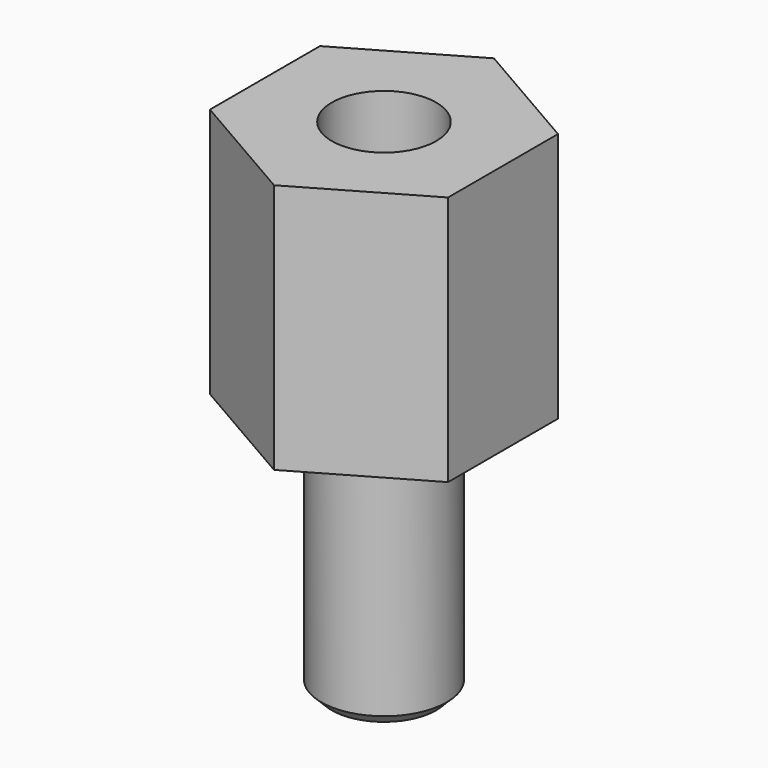
from build123d import *

# Parameters (mm, degrees)
SKETCH_R     = 1.5
PAD_DEPTH    = 6
SKETCH001_R  = 1.25
PAD001_DEPTH = 6
CHAMFER_SIZE = 0.25


with BuildPart() as part:
    # Sketch → Pad (new body)
    with BuildSketch(Plane.XY):
        Circle(SKETCH_R)
    extrude(amount=PAD_DEPTH)

    # Sketch001 (on Face3 of Pad) → Pad001 (join)
    with BuildSketch(Plane.XY.offset(6)):
        Polygon((0, -3.290897), (2.85, -1.645448), (2.85, 1.645448), (0, 3.290897), (-2.85, 1.645448), (-2.85, -1.645448), align=None)
        Circle(SKETCH001_R, mode=Mode.SUBTRACT)
    extrude(amount=PAD001_DEPTH)

    # Chamfer
    chamfer_edges = [part.edges().sort_by_distance(p)[0] for p in [
        (-1.5, 0, 0),
    ]]
    chamfer(chamfer_edges, length=CHAMFER_SIZE)


solid = part.part
